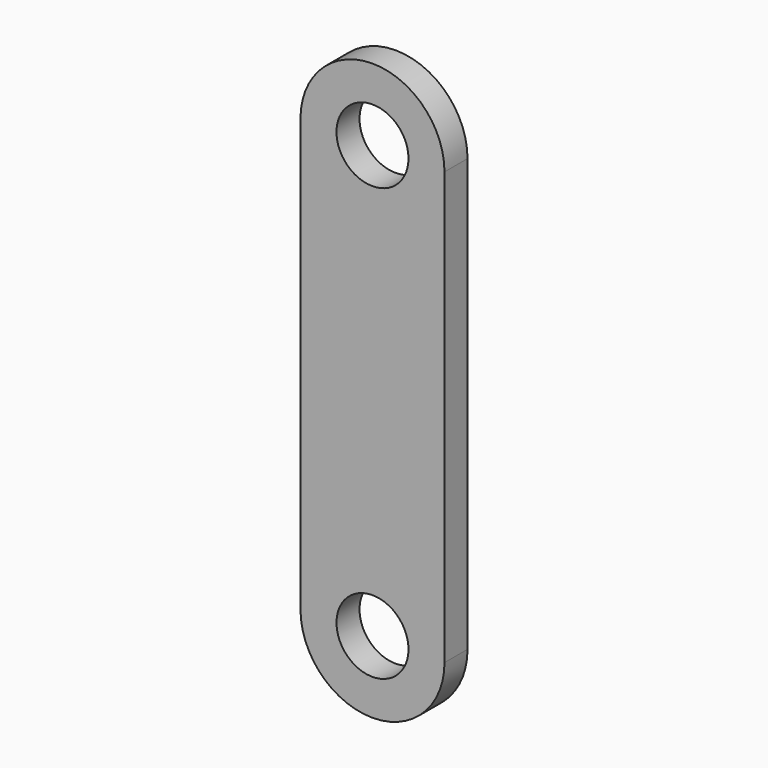
from build123d import *

# Parameters (mm, degrees)
F0_R     = 5
F1_DEPTH = 4


with BuildPart() as f1:
    # F0 (on Front) → F1 (new body)
    with BuildSketch(Plane.XZ):
        with BuildLine():
            ThreePointArc((-10, 0), (0, -10), (10, 0))
            ThreePointArc((10, 0), (0, 10), (-10, 0))
        make_face()
        Circle(F0_R, mode=Mode.SUBTRACT)
        with BuildLine():
            Line((10, -60), (10, 0))
            ThreePointArc((10, 0), (0, -10), (-10, 0))
            Line((-10, 0), (-10, -60))
            ThreePointArc((-10, -60), (0, -50), (10, -60))
        make_face()
        with BuildLine():
            ThreePointArc((-10, -60), (0, -70), (10, -60))
            ThreePointArc((10, -60), (0, -50), (-10, -60))
        make_face()
        with Locations((0, -60)):
            Circle(F0_R, mode=Mode.SUBTRACT)
    extrude(amount=F1_DEPTH)


solid = f1.part
